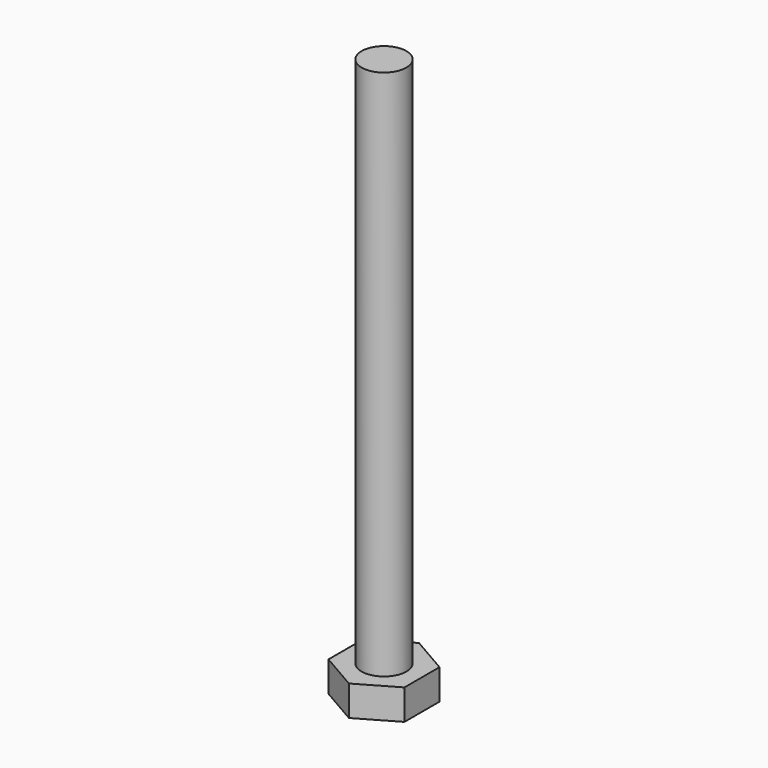
from build123d import *

# Parameters (mm, degrees)
SKETCH_R     = 2.95
PAD_DEPTH    = 70
PAD001_DEPTH = 4


with BuildPart() as part:
    # Sketch → Pad (new body)
    with BuildSketch(Plane.XY):
        Circle(SKETCH_R)
    extrude(amount=PAD_DEPTH)

    # Sketch001 (on Face2 of Pad) → Pad001 (join)
    with BuildSketch(Plane(origin=(0, 0, 0), x_dir=(1, 0, 0), z_dir=(0, 0, -1))):
        Polygon((0, 5.773503), (-5, 2.886751), (-5, -2.886751), (0, -5.773503), (5, -2.886751), (5, 2.886751), align=None)
    extrude(amount=PAD001_DEPTH)


solid = part.part
